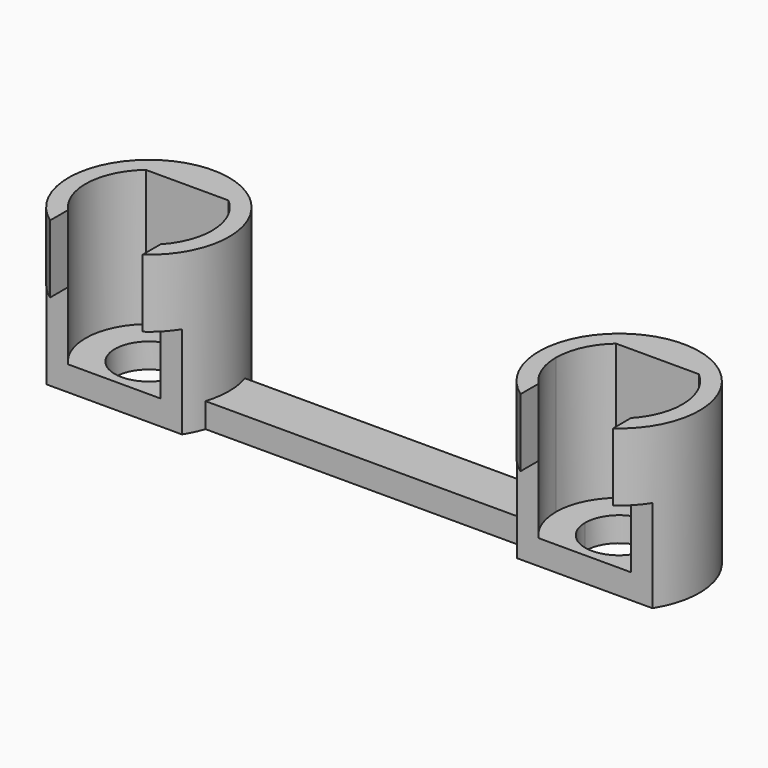
from build123d import *

# Parameters (mm, degrees)
F0_R      = 13
F2_DEPTH  = 26
F3_DEPTH  = 22
F5_DEPTH  = 30
F7_W      = 53
F7_H      = 8
F8_DEPTH  = 4
F9_W      = 25
F9_H      = 5
F10_DEPTH = 15


with BuildPart() as f2:
    # F0 (on Top) → F2 (new body)
    with BuildSketch(Plane.XY):
        with Locations((-38.1, 0)):
            Circle(F0_R)
    extrude(amount=-F2_DEPTH)


with BuildPart() as f2b:
    # F0 (on Top) → F2, piece 2 (new body)
    with BuildSketch(Plane.XY):
        with BuildLine():
            ThreePointArc((51.1, 0), (38.1, 13), (25.1, 0))
            ThreePointArc((25.1, 0), (38.1, -13), (51.1, 0))
        make_face()
    extrude(amount=-F2_DEPTH)


with BuildPart() as f3_tool:
    # F1 (on Top) → F3 (new body)
    with BuildSketch(Plane.XY):
        with BuildLine():
            ThreePointArc((-31.4, -7.7570935279), (-28.779659341, -4.2654132273), (-27.85, 0))
            Line((-27.85, 0), (-31.4, 0))
            Line((-31.4, 0), (-31.4, -7.7570935279))
        make_face()
        with BuildLine():
            Line((-31.4, 0), (-27.85, 0))
            ThreePointArc((-27.85, 0), (-28.779659341, 4.2654132273), (-31.4, 7.7570935279))
            Line((-31.4, 7.7570935279), (-31.4, 0))
        make_face()
        Polygon((-31.4, -7.7570935279), (-31.4, 0), (-31.4, 7.7570935279), (-44.8, 7.7570935279), (-44.8, -7.7570935279), align=None)
        with BuildLine():
            Line((-44.8, -7.7570935279), (-44.8, 7.7570935279))
            ThreePointArc((-44.8, 7.7570935279), (-48.35, 0), (-44.8, -7.7570935279))
        make_face()
        Polygon((31.4, 7.7570935279), (31.4, 0), (31.4, -7.7570935279), (44.8, -7.7570935279), (44.8, 7.7570935279), align=None)
        with BuildLine():
            ThreePointArc((48.35, 0), (47.420340659, 4.2654132273), (44.8, 7.7570935279))
            Line((44.8, 7.7570935279), (44.8, -7.7570935279))
            ThreePointArc((44.8, -7.7570935279), (47.420340659, -4.2654132273), (48.35, 0))
        make_face()
        with BuildLine():
            Line((31.4, -7.7570935279), (31.4, 0))
            Line((31.4, 0), (27.85, 0))
            ThreePointArc((27.85, 0), (28.779659341, -4.2654132273), (31.4, -7.7570935279))
        make_face()
        with BuildLine():
            Line((27.85, 0), (31.4, 0))
            Line((31.4, 0), (31.4, 7.7570935279))
            ThreePointArc((31.4, 7.7570935279), (28.779659341, 4.2654132273), (27.85, 0))
        make_face()
    extrude(amount=-F3_DEPTH)


with BuildPart() as f2_1:
    add(f2.part)

    # F3: cut by f3_tool
    add(f3_tool.part, mode=Mode.SUBTRACT)


with BuildPart() as f2b_1:
    add(f2b.part)

    # F3: cut by f3_tool
    add(f3_tool.part, mode=Mode.SUBTRACT)


with BuildPart() as f5_tool:
    # F4 (on Top) → F5 (new body)
    with BuildSketch(Plane.XY):
        with BuildLine():
            ThreePointArc((-38.1, -5.5), (-34.2109127035, -3.8890872965), (-32.6, 0))
            Line((-32.6, 0), (-38.1, 0))
            Line((-38.1, 0), (-38.1, -5.5))
        make_face()
        Polygon((45.6, -6.9865943062), (38.1, -6.9865943062), (30.6, -6.9865943062), (30.6, -13), (45.6, -13), align=None)
        with BuildLine():
            ThreePointArc((43.6, 0), (38.1, 5.5), (32.6, 0))
            Line((32.6, 0), (38.1, 0))
            Line((38.1, 0), (38.1, -5.5))
            ThreePointArc((38.1, -5.5), (41.9890872965, -3.8890872965), (43.6, 0))
        make_face()
        with BuildLine():
            Line((38.1, 0), (32.6, 0))
            ThreePointArc((32.6, 0), (34.2109127035, -3.8890872965), (38.1, -5.5))
            Line((38.1, -5.5), (38.1, 0))
        make_face()
        with BuildLine():
            Line((-38.1, 0), (-32.6, 0))
            ThreePointArc((-32.6, 0), (-41.9890872965, 3.8890872965), (-38.1, -5.5))
            Line((-38.1, -5.5), (-38.1, 0))
        make_face()
        Polygon((-30.6, -6.9865943062), (-38.1, -6.9865943062), (-45.6, -6.9865943062), (-45.6, -13), (-30.6, -13), align=None)
    extrude(amount=-F5_DEPTH)


with BuildPart() as f2_2:
    add(f2_1.part)

    # F5: cut by f5_tool
    add(f5_tool.part, mode=Mode.SUBTRACT)



with BuildPart() as f2b_2:
    add(f2b_1.part)

    # F5: cut by f5_tool
    add(f5_tool.part, mode=Mode.SUBTRACT)


with BuildPart() as f2_3:
    add(f2_2.part)

    add(f2b_2.part)  # F8 merges F2b
    # F7 (on offset) → F8 (join)
    with BuildSketch(Plane.XY.offset(-26)):
        Rectangle(F7_W, F7_H)
    extrude(amount=F8_DEPTH)

    # F9 (on offset) → F10 (cut)
    with BuildSketch(Plane.XY.offset(-26)):
        with Locations((-38.1, -9.4865943062)):
            Rectangle(F9_W, F9_H)
        with Locations((38.1, -9.4865943062)):
            Rectangle(F9_W, F9_H)
    extrude(amount=F10_DEPTH, mode=Mode.SUBTRACT)


solid = f2_3.part
